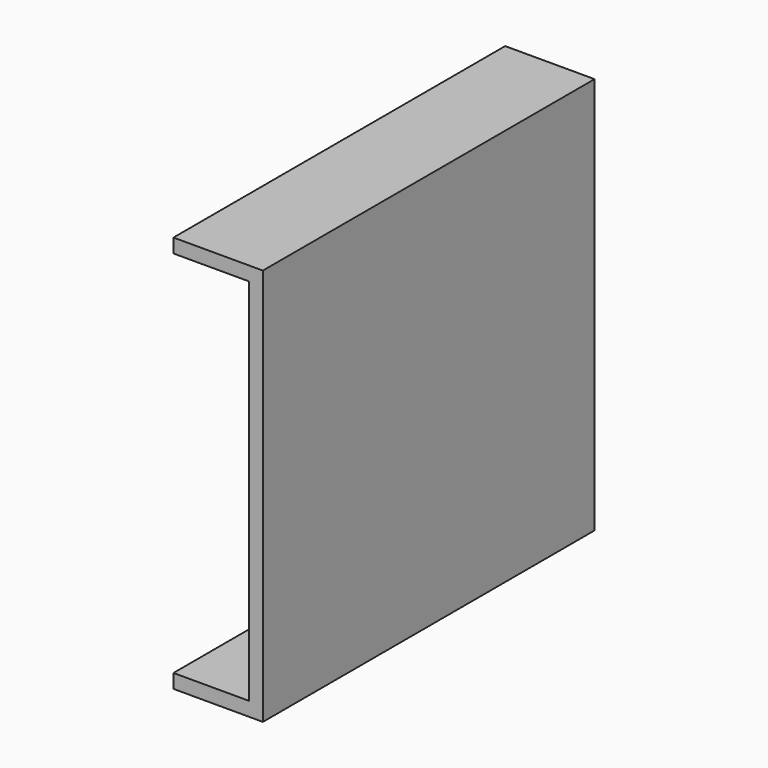
from build123d import *

# Parameters (mm, degrees)
F0_W     = 75.016104
F0_H     = 71.891762
F1_DEPTH = 16.1798
F2_T     = -2.54


with BuildPart() as f1:
    # F0 (on Right) → F1 (new body)
    with BuildSketch(Plane.YZ):
        Rectangle(F0_W, F0_H)
    extrude(amount=F1_DEPTH)

    # F2
    f2_openings = [f1.faces().sort_by_distance(p)[0] for p in [
        (0, 0, 0),
        (8.0899, -37.508052, 0),
        (8.0899, 37.508052, 0),
    ]]
    offset(amount=F2_T, openings=f2_openings)


solid = f1.part
